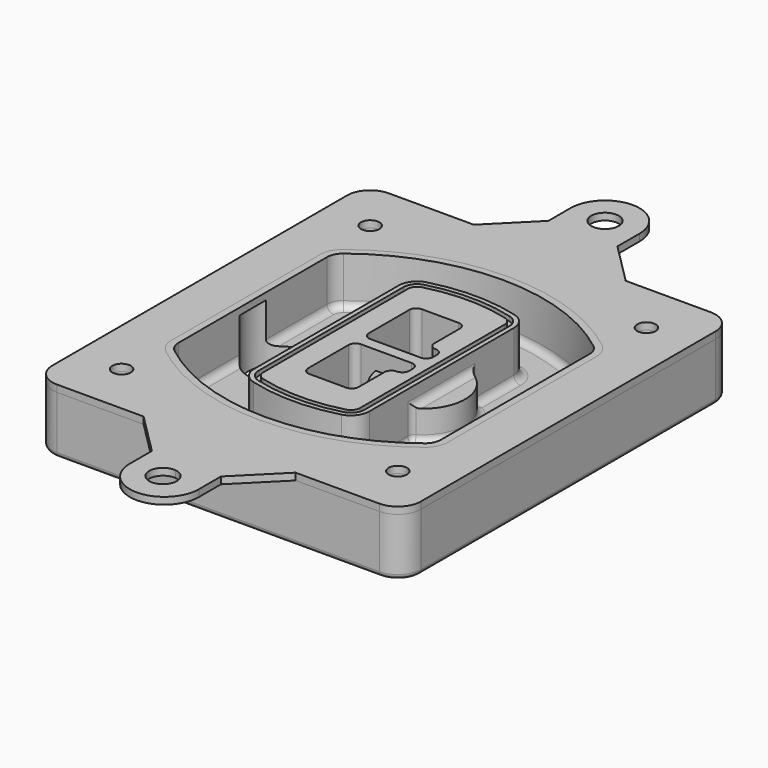
from build123d import *

# Parameters (mm, degrees)
F0_R      = 4
F1_DEPTH  = 25
F2_DEPTH  = 3
F3_DEPTH  = 18
F5_DEPTH  = 21
F6_DEPTH  = 2
F8_DEPTH  = 20
F9_DEPTH  = 16
F10_DEPTH = 25
F7_R      = 6
F7_R_2    = 4
F11_DEPTH = 6
F13_DEPTH = 9
F14_R     = 3
F15_R     = 2
F16_R     = 6
F16_R_2   = 4
F17_DEPTH = 3


with BuildPart() as f1:
    # F0 (on Top) → F1 (new body)
    with BuildSketch(Plane.XY):
        with BuildLine():
            ThreePointArc((-80, -80), (-77.0710678119, -87.0710678119), (-70, -90))
            Line((-70, -90), (70, -90))
            ThreePointArc((70, -90), (77.0710678119, -87.0710678119), (80, -80))
            Line((80, -80), (80, 80))
            ThreePointArc((80, 80), (77.0710678119, 87.0710678119), (70, 90))
            Line((70, 90), (-70, 90))
            ThreePointArc((-70, 90), (-77.0710678119, 87.0710678119), (-80, 80))
            Line((-80, 80), (-80, -80))
        make_face()
        with Locations((-60, -67.5)):
            Circle(F0_R, mode=Mode.SUBTRACT)
        with Locations((60, -67.5)):
            Circle(F0_R, mode=Mode.SUBTRACT)
        with Locations((-60, 67.5)):
            Circle(F0_R, mode=Mode.SUBTRACT)
        with BuildLine():
            ThreePointArc((-64, 40.2934422872), (-62.5820384798, 46.4328484224), (-58.6153846154, 51.3286200352))
            ThreePointArc((-58.6153846154, 51.3286200352), (0, 71.5), (58.6153846154, 51.3286200352))
            ThreePointArc((58.6153846154, 51.3286200352), (62.5820384798, 46.4328484224), (64, 40.2934422872))
            Line((64, 40.2934422872), (64, -40.2934422872))
            ThreePointArc((64, -40.2934422872), (62.5820384798, -46.4328484224), (58.6153846154, -51.3286200352))
            ThreePointArc((58.6153846154, -51.3286200352), (0, -71.5), (-58.6153846154, -51.3286200352))
            ThreePointArc((-58.6153846154, -51.3286200352), (-62.5820384798, -46.4328484224), (-64, -40.2934422872))
            Line((-64, -40.2934422872), (-64, 40.2934422872))
        make_face(mode=Mode.SUBTRACT)
        with Locations((60, 67.5)):
            Circle(F0_R, mode=Mode.SUBTRACT)
        with BuildLine():
            ThreePointArc((58.6153846154, 51.3286200352), (0, 71.5), (-58.6153846154, 51.3286200352))
            ThreePointArc((-58.6153846154, 51.3286200352), (-62.5820384798, 46.4328484224), (-64, 40.2934422872))
            Line((-64, 40.2934422872), (-64, -40.2934422872))
            ThreePointArc((-64, -40.2934422872), (-62.5820384798, -46.4328484224), (-58.6153846154, -51.3286200352))
            ThreePointArc((-58.6153846154, -51.3286200352), (0, -71.5), (58.6153846154, -51.3286200352))
            ThreePointArc((58.6153846154, -51.3286200352), (62.5820384798, -46.4328484224), (64, -40.2934422872))
            Line((64, -40.2934422872), (64, 40.2934422872))
            ThreePointArc((64, 40.2934422872), (62.5820384798, 46.4328484224), (58.6153846154, 51.3286200352))
        make_face()
        with BuildLine():
            Line((-60, -40.2934422872), (-60, 40.2934422872))
            ThreePointArc((-60, 40.2934422872), (-58.9871703427, 44.6787323838), (-56.1538461538, 48.1757121072))
            ThreePointArc((-56.1538461538, 48.1757121072), (0, 67.5), (56.1538461538, 48.1757121072))
            ThreePointArc((56.1538461538, 48.1757121072), (58.9871703427, 44.6787323838), (60, 40.2934422872))
            Line((60, 40.2934422872), (60, -40.2934422872))
            ThreePointArc((60, -40.2934422872), (58.9871703427, -44.6787323838), (56.1538461538, -48.1757121072))
            ThreePointArc((56.1538461538, -48.1757121072), (0, -67.5), (-56.1538461538, -48.1757121072))
            ThreePointArc((-56.1538461538, -48.1757121072), (-58.9871703427, -44.6787323838), (-60, -40.2934422872))
        make_face(mode=Mode.SUBTRACT)
        with BuildLine():
            ThreePointArc((-56.1538461538, 48.1757121072), (-58.9871703427, 44.6787323838), (-60, 40.2934422872))
            Line((-60, 40.2934422872), (-60, -40.2934422872))
            ThreePointArc((-60, -40.2934422872), (-58.9871703427, -44.6787323838), (-56.1538461538, -48.1757121072))
            ThreePointArc((-56.1538461538, -48.1757121072), (0, -67.5), (56.1538461538, -48.1757121072))
            ThreePointArc((56.1538461538, -48.1757121072), (58.9871703427, -44.6787323838), (60, -40.2934422872))
            Line((60, -40.2934422872), (60, 40.2934422872))
            ThreePointArc((60, 40.2934422872), (58.9871703427, 44.6787323838), (56.1538461538, 48.1757121072))
            ThreePointArc((56.1538461538, 48.1757121072), (0, 67.5), (-56.1538461538, 48.1757121072))
        make_face()
        with BuildLine():
            ThreePointArc((54.3076923077, 45.8110311612), (56.2910192399, 43.3631453548), (57, 40.2934422872))
            Line((57, 40.2934422872), (57, -40.2934422872))
            ThreePointArc((57, -40.2934422872), (56.2910192399, -43.3631453548), (54.3076923077, -45.8110311612))
            ThreePointArc((54.3076923077, -45.8110311612), (0, -64.5), (-54.3076923077, -45.8110311612))
            ThreePointArc((-54.3076923077, -45.8110311612), (-56.2910192399, -43.3631453548), (-57, -40.2934422872))
            Line((-57, -40.2934422872), (-57, 40.2934422872))
            ThreePointArc((-57, 40.2934422872), (-56.2910192399, 43.3631453548), (-54.3076923077, 45.8110311612))
            ThreePointArc((-54.3076923077, 45.8110311612), (0, 64.5), (54.3076923077, 45.8110311612))
        make_face(mode=Mode.SUBTRACT)
        with BuildLine():
            Line((57, -40.2934422872), (57, 40.2934422872))
            ThreePointArc((57, 40.2934422872), (56.2910192399, 43.3631453548), (54.3076923077, 45.8110311612))
            ThreePointArc((54.3076923077, 45.8110311612), (0, 64.5), (-54.3076923077, 45.8110311612))
            ThreePointArc((-54.3076923077, 45.8110311612), (-56.2910192399, 43.3631453548), (-57, 40.2934422872))
            Line((-57, 40.2934422872), (-57, -40.2934422872))
            ThreePointArc((-57, -40.2934422872), (-56.2910192399, -43.3631453548), (-54.3076923077, -45.8110311612))
            ThreePointArc((-54.3076923077, -45.8110311612), (0, -64.5), (54.3076923077, -45.8110311612))
            ThreePointArc((54.3076923077, -45.8110311612), (56.2910192399, -43.3631453548), (57, -40.2934422872))
        make_face()
    extrude(amount=-F1_DEPTH)

    # F0 (on Top) → F2 (join)
    with BuildSketch(Plane.XY):
        with BuildLine():
            ThreePointArc((-56.1538461538, 48.1757121072), (-58.9871703427, 44.6787323838), (-60, 40.2934422872))
            Line((-60, 40.2934422872), (-60, -40.2934422872))
            ThreePointArc((-60, -40.2934422872), (-58.9871703427, -44.6787323838), (-56.1538461538, -48.1757121072))
            ThreePointArc((-56.1538461538, -48.1757121072), (0, -67.5), (56.1538461538, -48.1757121072))
            ThreePointArc((56.1538461538, -48.1757121072), (58.9871703427, -44.6787323838), (60, -40.2934422872))
            Line((60, -40.2934422872), (60, 40.2934422872))
            ThreePointArc((60, 40.2934422872), (58.9871703427, 44.6787323838), (56.1538461538, 48.1757121072))
            ThreePointArc((56.1538461538, 48.1757121072), (0, 67.5), (-56.1538461538, 48.1757121072))
        make_face()
        with BuildLine():
            ThreePointArc((54.3076923077, 45.8110311612), (56.2910192399, 43.3631453548), (57, 40.2934422872))
            Line((57, 40.2934422872), (57, -40.2934422872))
            ThreePointArc((57, -40.2934422872), (56.2910192399, -43.3631453548), (54.3076923077, -45.8110311612))
            ThreePointArc((54.3076923077, -45.8110311612), (0, -64.5), (-54.3076923077, -45.8110311612))
            ThreePointArc((-54.3076923077, -45.8110311612), (-56.2910192399, -43.3631453548), (-57, -40.2934422872))
            Line((-57, -40.2934422872), (-57, 40.2934422872))
            ThreePointArc((-57, 40.2934422872), (-56.2910192399, 43.3631453548), (-54.3076923077, 45.8110311612))
            ThreePointArc((-54.3076923077, 45.8110311612), (0, 64.5), (54.3076923077, 45.8110311612))
        make_face(mode=Mode.SUBTRACT)
    extrude(amount=F2_DEPTH)

    # F0 (on Top) → F3 (cut)
    with BuildSketch(Plane.XY):
        with BuildLine():
            Line((57, -40.2934422872), (57, 40.2934422872))
            ThreePointArc((57, 40.2934422872), (56.2910192399, 43.3631453548), (54.3076923077, 45.8110311612))
            ThreePointArc((54.3076923077, 45.8110311612), (0, 64.5), (-54.3076923077, 45.8110311612))
            ThreePointArc((-54.3076923077, 45.8110311612), (-56.2910192399, 43.3631453548), (-57, 40.2934422872))
            Line((-57, 40.2934422872), (-57, -40.2934422872))
            ThreePointArc((-57, -40.2934422872), (-56.2910192399, -43.3631453548), (-54.3076923077, -45.8110311612))
            ThreePointArc((-54.3076923077, -45.8110311612), (0, -64.5), (54.3076923077, -45.8110311612))
            ThreePointArc((54.3076923077, -45.8110311612), (56.2910192399, -43.3631453548), (57, -40.2934422872))
        make_face()
    extrude(amount=-F3_DEPTH, mode=Mode.SUBTRACT)

    # F4 (on face) → F5 (join, through all)
    with BuildSketch(Plane.XY.offset(3)):
        with BuildLine():
            ThreePointArc((-25, -39.2465276821), (-23.3511545998, -44.1109737193), (-19.0842911877, -46.9702398883))
            ThreePointArc((-19.0842911877, -46.9702398883), (0, -49.5), (19.0842911877, -46.9702398883))
            ThreePointArc((19.0842911877, -46.9702398883), (23.3511545998, -44.1109737193), (25, -39.2465276821))
            Line((25, -39.2465276821), (25, 39.2465276821))
            ThreePointArc((25, 39.2465276821), (23.3511545998, 44.1109737193), (19.0842911877, 46.9702398883))
            ThreePointArc((19.0842911877, 46.9702398883), (0, 49.5), (-19.0842911877, 46.9702398883))
            ThreePointArc((-19.0842911877, 46.9702398883), (-23.3511545998, 44.1109737193), (-25, 39.2465276821))
            Line((-25, 39.2465276821), (-25, -39.2465276821))
        make_face()
        with BuildLine():
            ThreePointArc((18.5632183908, 45.0393118368), (21.7633659499, 42.89486221), (23, 39.2465276821))
            Line((23, 39.2465276821), (23, -39.2465276821))
            ThreePointArc((23, -39.2465276821), (21.7633659499, -42.89486221), (18.5632183908, -45.0393118368))
            ThreePointArc((18.5632183908, -45.0393118368), (0, -47.5), (-18.5632183908, -45.0393118368))
            ThreePointArc((-18.5632183908, -45.0393118368), (-21.7633659499, -42.89486221), (-23, -39.2465276821))
            Line((-23, -39.2465276821), (-23, 39.2465276821))
            ThreePointArc((-23, 39.2465276821), (-21.7633659499, 42.89486221), (-18.5632183908, 45.0393118368))
            ThreePointArc((-18.5632183908, 45.0393118368), (0, 47.5), (18.5632183908, 45.0393118368))
        make_face(mode=Mode.SUBTRACT)
        with BuildLine():
            Line((23, -39.2465276821), (23, 39.2465276821))
            ThreePointArc((23, 39.2465276821), (21.7633659499, 42.89486221), (18.5632183908, 45.0393118368))
            ThreePointArc((18.5632183908, 45.0393118368), (0, 47.5), (-18.5632183908, 45.0393118368))
            ThreePointArc((-18.5632183908, 45.0393118368), (-21.7633659499, 42.89486221), (-23, 39.2465276821))
            Line((-23, 39.2465276821), (-23, -39.2465276821))
            ThreePointArc((-23, -39.2465276821), (-21.7633659499, -42.89486221), (-18.5632183908, -45.0393118368))
            ThreePointArc((-18.5632183908, -45.0393118368), (0, -47.5), (18.5632183908, -45.0393118368))
            ThreePointArc((18.5632183908, -45.0393118368), (21.7633659499, -42.89486221), (23, -39.2465276821))
        make_face()
        with BuildLine():
            ThreePointArc((18.0421455939, 43.1083837852), (20.1755772999, 41.6787507007), (21, 39.2465276821))
            Line((21, 39.2465276821), (21, -39.2465276821))
            ThreePointArc((21, -39.2465276821), (20.1755772999, -41.6787507007), (18.0421455939, -43.1083837852))
            ThreePointArc((18.0421455939, -43.1083837852), (0, -45.5), (-18.0421455939, -43.1083837852))
            ThreePointArc((-18.0421455939, -43.1083837852), (-20.1755772999, -41.6787507007), (-21, -39.2465276821))
            Line((-21, -39.2465276821), (-21, 39.2465276821))
            ThreePointArc((-21, 39.2465276821), (-20.1755772999, 41.6787507007), (-18.0421455939, 43.1083837852))
            ThreePointArc((-18.0421455939, 43.1083837852), (0, 45.5), (18.0421455939, 43.1083837852))
        make_face(mode=Mode.SUBTRACT)
        with BuildLine():
            Line((21, -39.2465276821), (21, 39.2465276821))
            ThreePointArc((21, 39.2465276821), (20.1755772999, 41.6787507007), (18.0421455939, 43.1083837852))
            ThreePointArc((18.0421455939, 43.1083837852), (0, 45.5), (-18.0421455939, 43.1083837852))
            ThreePointArc((-18.0421455939, 43.1083837852), (-20.1755772999, 41.6787507007), (-21, 39.2465276821))
            Line((-21, 39.2465276821), (-21, -39.2465276821))
            ThreePointArc((-21, -39.2465276821), (-20.1755772999, -41.6787507007), (-18.0421455939, -43.1083837852))
            ThreePointArc((-18.0421455939, -43.1083837852), (0, -45.5), (18.0421455939, -43.1083837852))
            ThreePointArc((18.0421455939, -43.1083837852), (20.1755772999, -41.6787507007), (21, -39.2465276821))
        make_face()
        with BuildLine():
            Line((-8, -2.5), (14, -2.5))
            ThreePointArc((14, -2.5), (16.1213203436, -3.3786796564), (17, -5.5))
            Line((17, -5.5), (17, -7.5))
            ThreePointArc((17, -7.5), (16.1213203436, -9.6213203436), (14, -10.5))
            ThreePointArc((14, -10.5), (11.8786796564, -11.3786796564), (11, -13.5))
            Line((11, -13.5), (11, -27.5))
            ThreePointArc((11, -27.5), (10.1213203436, -29.6213203436), (8, -30.5))
            Line((8, -30.5), (-8, -30.5))
            ThreePointArc((-8, -30.5), (-10.1213203436, -29.6213203436), (-11, -27.5))
            Line((-11, -27.5), (-11, -5.5))
            ThreePointArc((-11, -5.5), (-10.1213203436, -3.3786796564), (-8, -2.5))
        make_face(mode=Mode.SUBTRACT)
        with BuildLine():
            ThreePointArc((-8, 2.5), (-10.1213203436, 3.3786796564), (-11, 5.5))
            Line((-11, 5.5), (-11, 27.5))
            ThreePointArc((-11, 27.5), (-10.1213203436, 29.6213203436), (-8, 30.5))
            Line((-8, 30.5), (8, 30.5))
            ThreePointArc((8, 30.5), (10.1213203436, 29.6213203436), (11, 27.5))
            Line((11, 27.5), (11, 13.5))
            ThreePointArc((11, 13.5), (11.8786796564, 11.3786796564), (14, 10.5))
            ThreePointArc((14, 10.5), (16.1213203436, 9.6213203436), (17, 7.5))
            Line((17, 7.5), (17, 5.5))
            ThreePointArc((17, 5.5), (16.1213203436, 3.3786796564), (14, 2.5))
            Line((14, 2.5), (-8, 2.5))
        make_face(mode=Mode.SUBTRACT)
    extrude(amount=-F5_DEPTH)

    # F4 (on face) → F6 (cut)
    with BuildSketch(Plane.XY.offset(3)):
        with BuildLine():
            Line((23, -39.2465276821), (23, 39.2465276821))
            ThreePointArc((23, 39.2465276821), (21.7633659499, 42.89486221), (18.5632183908, 45.0393118368))
            ThreePointArc((18.5632183908, 45.0393118368), (0, 47.5), (-18.5632183908, 45.0393118368))
            ThreePointArc((-18.5632183908, 45.0393118368), (-21.7633659499, 42.89486221), (-23, 39.2465276821))
            Line((-23, 39.2465276821), (-23, -39.2465276821))
            ThreePointArc((-23, -39.2465276821), (-21.7633659499, -42.89486221), (-18.5632183908, -45.0393118368))
            ThreePointArc((-18.5632183908, -45.0393118368), (0, -47.5), (18.5632183908, -45.0393118368))
            ThreePointArc((18.5632183908, -45.0393118368), (21.7633659499, -42.89486221), (23, -39.2465276821))
        make_face()
        with BuildLine():
            ThreePointArc((18.0421455939, 43.1083837852), (20.1755772999, 41.6787507007), (21, 39.2465276821))
            Line((21, 39.2465276821), (21, -39.2465276821))
            ThreePointArc((21, -39.2465276821), (20.1755772999, -41.6787507007), (18.0421455939, -43.1083837852))
            ThreePointArc((18.0421455939, -43.1083837852), (0, -45.5), (-18.0421455939, -43.1083837852))
            ThreePointArc((-18.0421455939, -43.1083837852), (-20.1755772999, -41.6787507007), (-21, -39.2465276821))
            Line((-21, -39.2465276821), (-21, 39.2465276821))
            ThreePointArc((-21, 39.2465276821), (-20.1755772999, 41.6787507007), (-18.0421455939, 43.1083837852))
            ThreePointArc((-18.0421455939, 43.1083837852), (0, 45.5), (18.0421455939, 43.1083837852))
        make_face(mode=Mode.SUBTRACT)
    extrude(amount=-F6_DEPTH, mode=Mode.SUBTRACT)

    # F7 (on face) → F8 (join)
    with BuildSketch(Plane(origin=(0, 0, -25), x_dir=(1, 0, 0), z_dir=(0, 0, -1))):
        with BuildLine():
            ThreePointArc((3.28842436, 0), (16.7567035675, 13.4682792075), (30.224982775, 0))
            Line((30.224982775, 0), (35.224982775, 0))
            ThreePointArc((35.224982775, 0), (16.7567035675, 18.4682792075), (-1.71157564, 0))
            Line((-1.71157564, 0), (3.28842436, 0))
        make_face()
        with BuildLine():
            Line((3.28842436, 0), (30.224982775, 0))
            ThreePointArc((30.224982775, 0), (16.7567035675, 13.4682792075), (3.28842436, 0))
        make_face()
        with BuildLine():
            ThreePointArc((3.28842436, 0), (16.7567035675, -13.4682792075), (30.224982775, 0))
            Line((30.224982775, 0), (3.28842436, 0))
        make_face()
        with BuildLine():
            Line((35.224982775, 0), (30.224982775, 0))
            ThreePointArc((30.224982775, 0), (16.7567035675, -13.4682792075), (3.28842436, 0))
            Line((3.28842436, 0), (-1.71157564, 0))
            ThreePointArc((-1.71157564, 0), (16.7567035675, -18.4682792075), (35.224982775, 0))
        make_face()
    extrude(amount=-F8_DEPTH)

    # F7 (on face) → F9 (cut)
    with BuildSketch(Plane(origin=(0, 0, -25), x_dir=(1, 0, 0), z_dir=(0, 0, -1))):
        with BuildLine():
            Line((3.28842436, 0), (30.224982775, 0))
            ThreePointArc((30.224982775, 0), (16.7567035675, 13.4682792075), (3.28842436, 0))
        make_face()
        with BuildLine():
            ThreePointArc((3.28842436, 0), (16.7567035675, -13.4682792075), (30.224982775, 0))
            Line((30.224982775, 0), (3.28842436, 0))
        make_face()
    extrude(amount=-F9_DEPTH, mode=Mode.SUBTRACT)

    # F7 (on face) → F10 (cut)
    with BuildSketch(Plane(origin=(0, 0, -25), x_dir=(1, 0, 0), z_dir=(0, 0, -1))):
        with BuildLine():
            Line((-59.0318229325, 0), (-32.0952645175, 0))
            ThreePointArc((-32.0952645175, 0), (-45.563543725, 13.4682792075), (-59.0318229325, 0))
        make_face()
        with BuildLine():
            ThreePointArc((-59.0318229325, 0), (-45.563543725, -13.4682792075), (-32.0952645175, 0))
            Line((-32.0952645175, 0), (-59.0318229325, 0))
        make_face()
    extrude(amount=-F10_DEPTH, mode=Mode.SUBTRACT)

    # F7 (on face) → F11 (cut)
    with BuildSketch(Plane(origin=(0, 0, -25), x_dir=(1, 0, 0), z_dir=(0, 0, -1))):
        with Locations((60, -67.5)):
            Circle(F7_R)
        with Locations((60, -67.5)):
            Circle(F7_R_2, mode=Mode.SUBTRACT)
        with Locations((60, -67.5)):
            Circle(F7_R)
        with Locations((60, -67.5)):
            Circle(F7_R_2, mode=Mode.SUBTRACT)
        with Locations((-60, -67.5)):
            Circle(F7_R)
        with Locations((-60, -67.5)):
            Circle(F7_R_2, mode=Mode.SUBTRACT)
        with Locations((-60, -67.5)):
            Circle(F7_R)
        with Locations((-60, -67.5)):
            Circle(F7_R_2, mode=Mode.SUBTRACT)
        with Locations((-60, 67.5)):
            Circle(F7_R)
        with Locations((-60, 67.5)):
            Circle(F7_R_2, mode=Mode.SUBTRACT)
        with Locations((-60, 67.5)):
            Circle(F7_R)
        with Locations((-60, 67.5)):
            Circle(F7_R_2, mode=Mode.SUBTRACT)
        with Locations((60, 67.5)):
            Circle(F7_R)
        with Locations((60, 67.5)):
            Circle(F7_R_2, mode=Mode.SUBTRACT)
        with Locations((60, 67.5)):
            Circle(F7_R)
        with Locations((60, 67.5)):
            Circle(F7_R_2, mode=Mode.SUBTRACT)
    extrude(amount=-F11_DEPTH, mode=Mode.SUBTRACT)

    # F12 (on face) → F13 (cut, through all)
    with BuildSketch(Plane(origin=(0, 0, -9), x_dir=(1, 0, 0), z_dir=(0, 0, -1))):
        with BuildLine():
            Line((11, 13.5), (11, 17.5481537753))
            ThreePointArc((11, 17.5481537753), (2.5696536419, 11.8239143813), (-1.5415842455, 2.5))
            Line((-1.5415842455, 2.5), (3.5224848595, 2.5))
            ThreePointArc((3.5224848595, 2.5), (6.1857188154, 8.3455872281), (11.2536447004, 12.2927168648))
            ThreePointArc((11.2536447004, 12.2927168648), (11.0640958889, 12.8831798879), (11, 13.5))
        make_face()
        with BuildLine():
            ThreePointArc((11.2536447004, -12.2927168648), (6.1857188154, -8.3455872281), (3.5224848595, -2.5))
            Line((3.5224848595, -2.5), (-1.5415842455, -2.5))
            ThreePointArc((-1.5415842455, -2.5), (2.5696536419, -11.8239143813), (11, -17.5481537753))
            Line((11, -17.5481537753), (11, -13.5))
            ThreePointArc((11, -13.5), (11.0640958889, -12.8831798879), (11.2536447004, -12.2927168648))
        make_face()
        with BuildLine():
            ThreePointArc((11.2536447004, 12.2927168648), (6.1857188154, 8.3455872281), (3.5224848595, 2.5))
            Line((3.5224848595, 2.5), (14, 2.5))
            ThreePointArc((14, 2.5), (16.1213203436, 3.3786796564), (17, 5.5))
            Line((17, 5.5), (17, 7.5))
            ThreePointArc((17, 7.5), (16.1213203436, 9.6213203436), (14, 10.5))
            ThreePointArc((14, 10.5), (12.3601599782, 10.9878446101), (11.2536447004, 12.2927168648))
        make_face()
        with BuildLine():
            Line((14, -2.5), (3.5224848595, -2.5))
            ThreePointArc((3.5224848595, -2.5), (6.1857188154, -8.3455872281), (11.2536447004, -12.2927168648))
            ThreePointArc((11.2536447004, -12.2927168648), (12.3601599782, -10.9878446101), (14, -10.5))
            ThreePointArc((14, -10.5), (16.1213203436, -9.6213203436), (17, -7.5))
            Line((17, -7.5), (17, -5.5))
            ThreePointArc((17, -5.5), (16.1213203436, -3.3786796564), (14, -2.5))
        make_face()
    extrude(amount=F13_DEPTH, mode=Mode.SUBTRACT)

    # F14
    f14_edges = [f1.edges().sort_by_distance(p)[0] for p in [
        (-57, -23.703476, -18),
        (-57, 23.703476, -18),
        (25, 0, -5),
        (25, 16.526506, -11.5),
        (25, -16.526506, -11.5),
        (25, -27.886517, -18),
        (35.224983, 0, -18),
    ]]
    fillet(f14_edges, radius=F14_R)

    # F15
    f15_edges = [f1.edges().sort_by_distance(p)[0] for p in [
        (0, -90, -25),
    ]]
    fillet(f15_edges, radius=F15_R)


with BuildPart() as f17:
    # F16 (on face) → F17 (new body, through all)
    with BuildSketch(Plane.XY):
        with BuildLine():
            Line((15.5748050213, -108), (33.5748050213, -90))
            Line((33.5748050213, -90), (-32.4251949787, -90))
            Line((-32.4251949787, -90), (-14.4251949787, -108))
            Line((-14.4251949787, -108), (-14.4251949787, -120))
            ThreePointArc((-14.4251949787, -120), (0.5748050213, -135), (15.5748050213, -120))
            Line((15.5748050213, -120), (15.5748050213, -108))
        make_face()
        with BuildLine():
            ThreePointArc((0.5748050213, -114.0275968666), (4.4412177456, -115.9656989532), (6, -120))
            ThreePointArc((6, -120), (-4.4412177456, -124.0343010468), (0.5748050213, -114.0275968666))
        make_face(mode=Mode.SUBTRACT)
        with BuildLine():
            Line((15, 108), (15, 120))
            ThreePointArc((15, 120), (0, 135), (-15, 120))
            Line((-15, 120), (-15, 108))
            Line((-15, 108), (-33, 90))
            Line((-33, 90), (33, 90))
            Line((33, 90), (15, 108))
        make_face()
        with Locations((0, 120)):
            Circle(F16_R, mode=Mode.SUBTRACT)
        with BuildLine():
            Line((70, 90), (33, 90))
            Line((33, 90), (-33, 90))
            Line((-33, 90), (-70, 90))
            ThreePointArc((-70, 90), (-77.0710678119, 87.0710678119), (-80, 80))
            Line((-80, 80), (-80, -80))
            ThreePointArc((-80, -80), (-77.0710678119, -87.0710678119), (-70, -90))
            Line((-70, -90), (-32.4251949787, -90))
            Line((-32.4251949787, -90), (33.5748050213, -90))
            Line((33.5748050213, -90), (70, -90))
            ThreePointArc((70, -90), (77.0710678119, -87.0710678119), (80, -80))
            Line((80, -80), (80, 80))
            ThreePointArc((80, 80), (77.0710678119, 87.0710678119), (70, 90))
        make_face()
        with Locations((-60, -67.5)):
            Circle(F16_R_2, mode=Mode.SUBTRACT)
        with Locations((60, -67.5)):
            Circle(F16_R_2, mode=Mode.SUBTRACT)
        with Locations((-60, 67.5)):
            Circle(F16_R_2, mode=Mode.SUBTRACT)
        with BuildLine():
            ThreePointArc((-60, 40.2934422872), (-58.9871703427, 44.6787323838), (-56.1538461538, 48.1757121072))
            ThreePointArc((-56.1538461538, 48.1757121072), (0, 67.5), (56.1538461538, 48.1757121072))
            ThreePointArc((56.1538461538, 48.1757121072), (58.9871703427, 44.6787323838), (60, 40.2934422872))
            Line((60, 40.2934422872), (60, -40.2934422872))
            ThreePointArc((60, -40.2934422872), (58.9871703427, -44.6787323838), (56.1538461538, -48.1757121072))
            ThreePointArc((56.1538461538, -48.1757121072), (0, -67.5), (-56.1538461538, -48.1757121072))
            ThreePointArc((-56.1538461538, -48.1757121072), (-58.9871703427, -44.6787323838), (-60, -40.2934422872))
            Line((-60, -40.2934422872), (-60, 40.2934422872))
        make_face(mode=Mode.SUBTRACT)
        with Locations((60, 67.5)):
            Circle(F16_R_2, mode=Mode.SUBTRACT)
    extrude(amount=F17_DEPTH)


solid = Compound([f1.part, f17.part])
